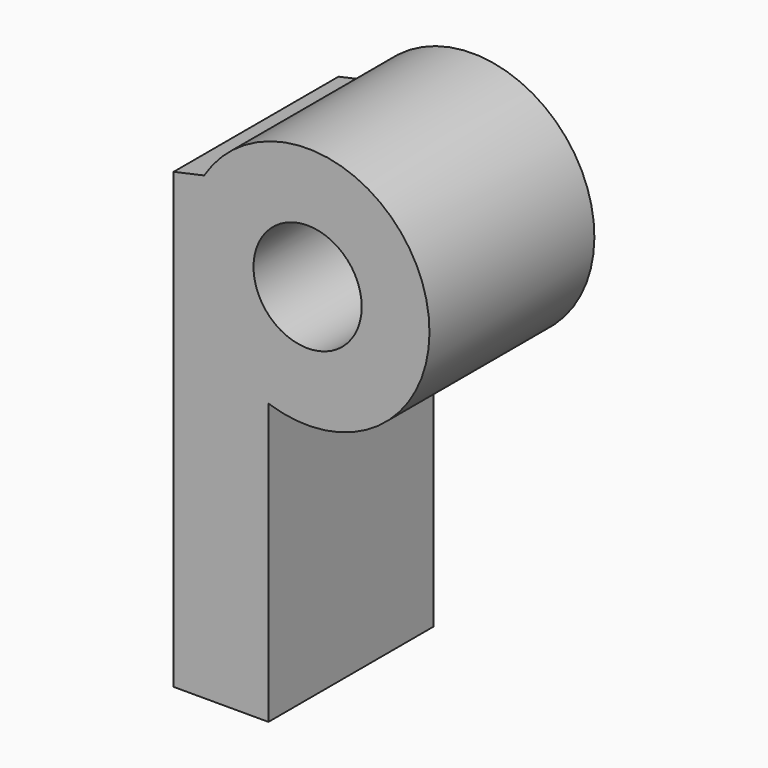
from build123d import *

# Parameters (mm, degrees)
F0_R     = 6.562201
F1_DEPTH = 25


with BuildPart() as f1:
    # F0 (on Front) → F1 (new body)
    with BuildSketch(Plane.XZ):
        with BuildLine():
            Line((16.947664, 43.057742), (13.250001, 42.2474))
            Line((13.250001, 42.2474), (13.250001, -12.752604))
            Line((13.250001, -12.752604), (24.750002, -12.752604))
            Line((24.750002, -12.752604), (24.750002, 21.247396))
            ThreePointArc((24.750002, 21.247396), (43.41997, 40.227069), (16.947664, 43.057742))
        make_face()
        with Locations((29.500002, 35.2474)):
            Circle(F0_R, mode=Mode.SUBTRACT)
    extrude(amount=F1_DEPTH)


solid = f1.part
